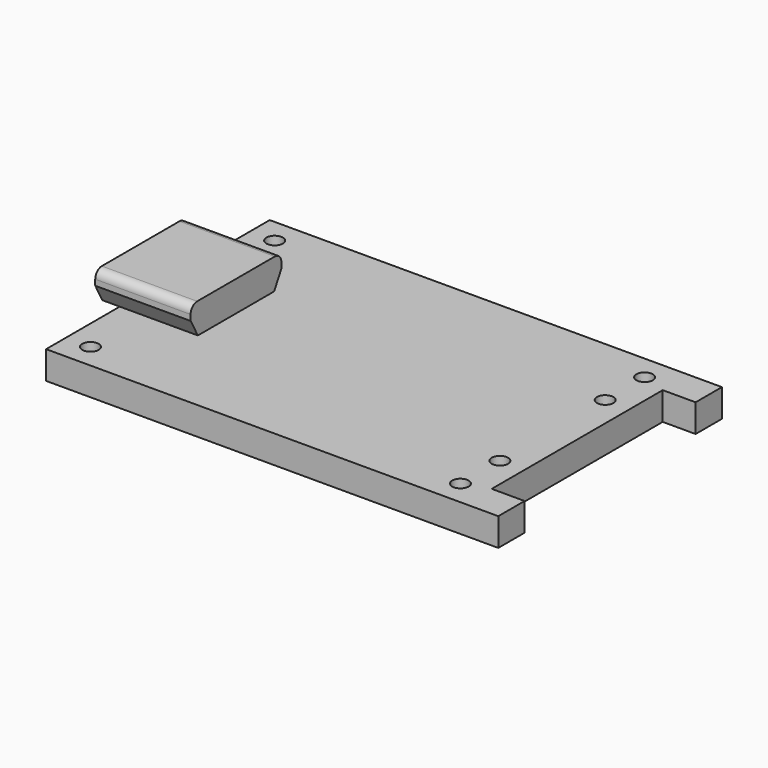
from build123d import *

# Parameters (mm, degrees)
F1_DEPTH      = 1.7
F2_R          = 0.5
F3_DEPTH      = 1.701
F6_DEPTH      = 4.8
F6_DEPTH_BACK = 1


with BuildPart() as f1:
    # F0 (on Top) → F1 (new body)
    with BuildSketch(Plane.XY):
        Polygon((13.75, 6.5), (13.75, 8.5), (-13.75, 8.5), (-13.75, -8.5), (13.75, -8.5), (13.75, -6.5), (11.75, -6.5), (11.75, 6.5), align=None)
    extrude(amount=F1_DEPTH)

    # F2 (on face) → F3 (cut, through all)
    with BuildSketch(Plane.XY.offset(1.7)):
        with Locations((10.25, 7)):
            Circle(F2_R)
        with Locations((10.25, 4)):
            Circle(F2_R)
        with Locations((10.25, -4)):
            Circle(F2_R)
        with Locations((10.25, -7)):
            Circle(F2_R)
        with Locations((-12.25, 7)):
            Circle(F2_R)
        with Locations((-12.25, -7)):
            Circle(F2_R)
    extrude(amount=-F3_DEPTH, mode=Mode.SUBTRACT)


with BuildPart() as f6:
    # F5 (on offset) → F6 (new body, two sides)
    with BuildSketch(Plane.YZ.offset(-13.8)) as f6_sk:
        with BuildLine():
            Line((-2.9, 1.7), (2.9, 1.7))
            Line((2.9, 1.7), (3.45, 2.7))
            Line((3.45, 2.7), (3.45, 3.05))
            ThreePointArc((3.45, 3.05), (3.303553, 3.403553), (2.95, 3.55))
            Line((2.95, 3.55), (-2.95, 3.55))
            ThreePointArc((-2.95, 3.55), (-3.303553, 3.403553), (-3.45, 3.05))
            Line((-3.45, 3.05), (-3.45, 2.7))
            Line((-3.45, 2.7), (-2.9, 1.7))
        make_face()
    extrude(amount=F6_DEPTH)
    extrude(f6_sk.sketch, amount=-F6_DEPTH_BACK)


solid = Compound([f1.part, f6.part])
